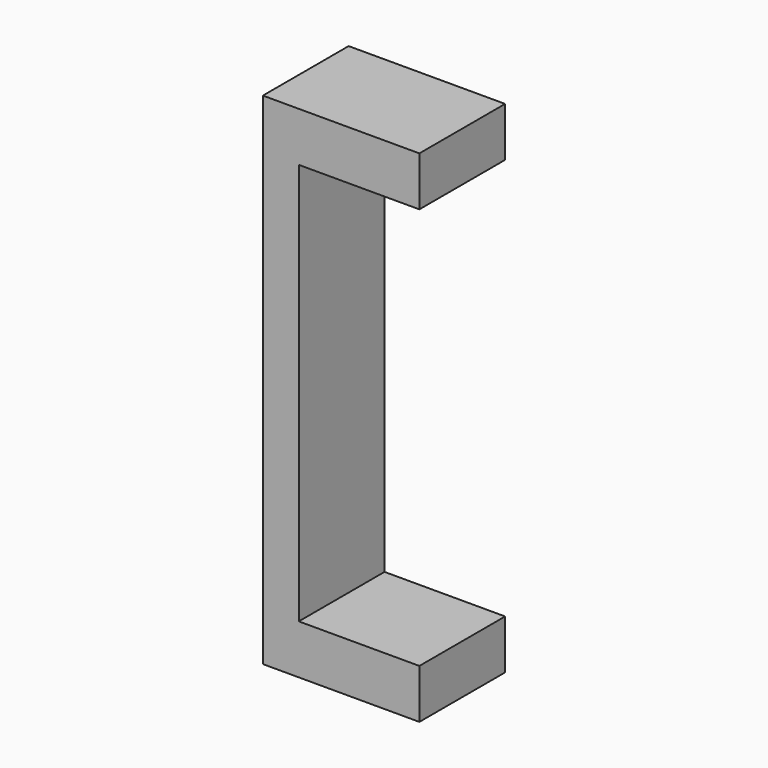
from build123d import *

# Parameters (mm, degrees)
F0_W     = 74.168
F0_H     = 118.618
F0_W_2   = 57.15
F0_H_2   = 95.25
F1_DEPTH = 25.4
F2_W     = 28.575
F2_H     = 95.25
F3_DEPTH = 25.401


with BuildPart() as f1:
    # F0 (on Front) → F1 (new body)
    with BuildSketch(Plane.XZ):
        Rectangle(F0_W, F0_H)
        Rectangle(F0_W_2, F0_H_2, mode=Mode.SUBTRACT)
    extrude(amount=F1_DEPTH)

    # F2 (on face) → F3 (cut, through all)
    with BuildSketch(Plane.XZ.offset(25.4)):
        with Locations((14.2875, 0)):
            Rectangle(F2_W, F2_H)
        Polygon((37.084, -59.309), (37.084, 59.309), (0, 59.309), (0, 47.625), (28.575, 47.625), (28.575, -47.625), (0, -47.625), (0, -59.309), align=None)
    extrude(amount=-F3_DEPTH, mode=Mode.SUBTRACT)


solid = f1.part
